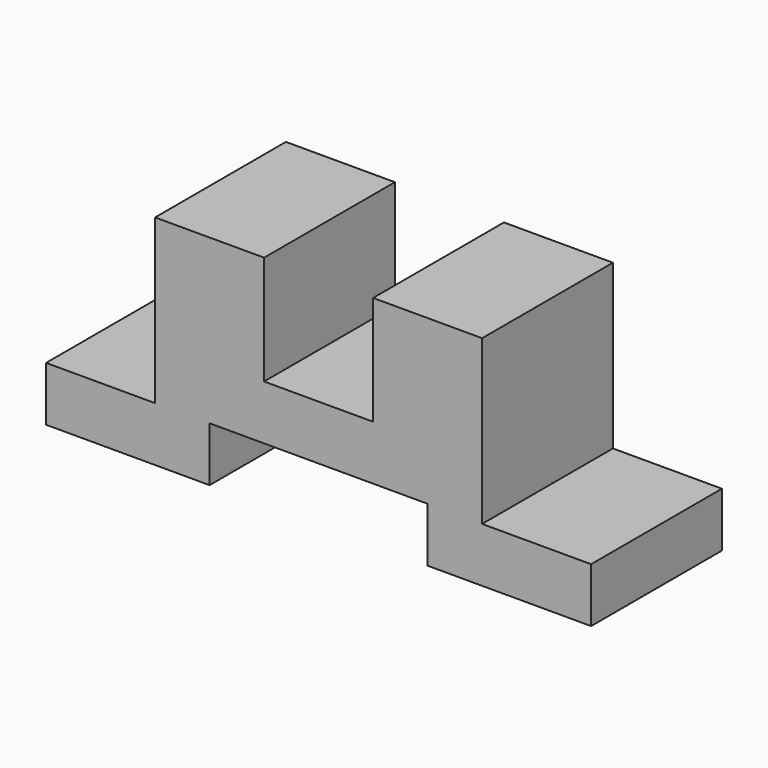
from build123d import *

# Parameters (mm, degrees)
F0_W     = 127
F0_H     = 50.8
F1_DEPTH = 38.1
F2_W     = 50.8
F2_H     = 38.1
F3_DEPTH = 12.7
F4_W     = 25.4
F4_H     = 38.1
F5_DEPTH = 38.1
F6_W     = 25.4
F6_H     = 38.1
F7_DEPTH = 38.1
F8_W     = 25.4
F8_H     = 38.1
F9_DEPTH = 25.4


with BuildPart() as f1:
    # F0 (on Front) → F1 (new body)
    with BuildSketch(Plane.XZ):
        Rectangle(F0_W, F0_H)
    extrude(amount=F1_DEPTH)

    # F2 (on face) → F3 (cut)
    with BuildSketch(Plane(origin=(0, 0, -25.4), x_dir=(1, 0, 0), z_dir=(0, 0, -1))):
        with Locations((0, 19.05)):
            Rectangle(F2_W, F2_H)
    extrude(amount=-F3_DEPTH, mode=Mode.SUBTRACT)

    # F4 (on face) → F5 (cut)
    with BuildSketch(Plane.XZ.offset(38.1)):
        with Locations((-50.8, 6.35)):
            Rectangle(F4_W, F4_H)
    extrude(amount=-F5_DEPTH, mode=Mode.SUBTRACT)

    # F6 (on face) → F7 (cut)
    with BuildSketch(Plane.XZ.offset(38.1)):
        with Locations((50.8, 6.35)):
            Rectangle(F6_W, F6_H)
    extrude(amount=-F7_DEPTH, mode=Mode.SUBTRACT)

    # F8 (on face) → F9 (cut)
    with BuildSketch(Plane.XY.offset(25.4)):
        with Locations((0, -19.05)):
            Rectangle(F8_W, F8_H)
    extrude(amount=-F9_DEPTH, mode=Mode.SUBTRACT)


solid = f1.part
